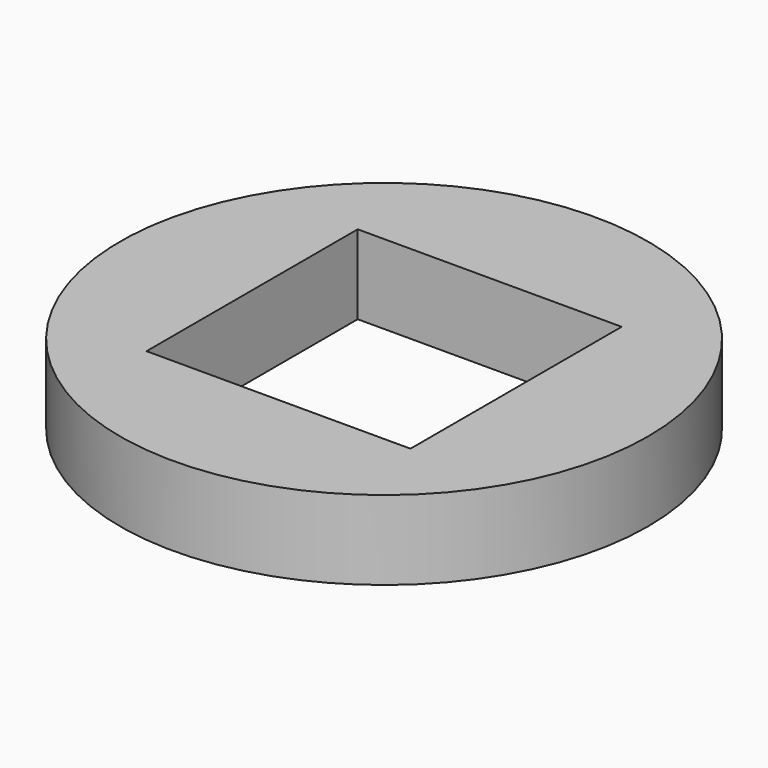
from build123d import *

# Parameters (mm, degrees)
F0_R     = 10
F1_DEPTH = 3
F2_W     = 10
F2_H     = 10
F3_DEPTH = 3.001


with BuildPart() as f1:
    # F0 (on Top) → F1 (new body)
    with BuildSketch(Plane.XY):
        Circle(F0_R)
    extrude(amount=F1_DEPTH)

    # F2 (on face) → F3 (cut, through all)
    with BuildSketch(Plane.XY.offset(3)):
        Rectangle(F2_W, F2_H)
    extrude(amount=-F3_DEPTH, mode=Mode.SUBTRACT)


solid = f1.part
